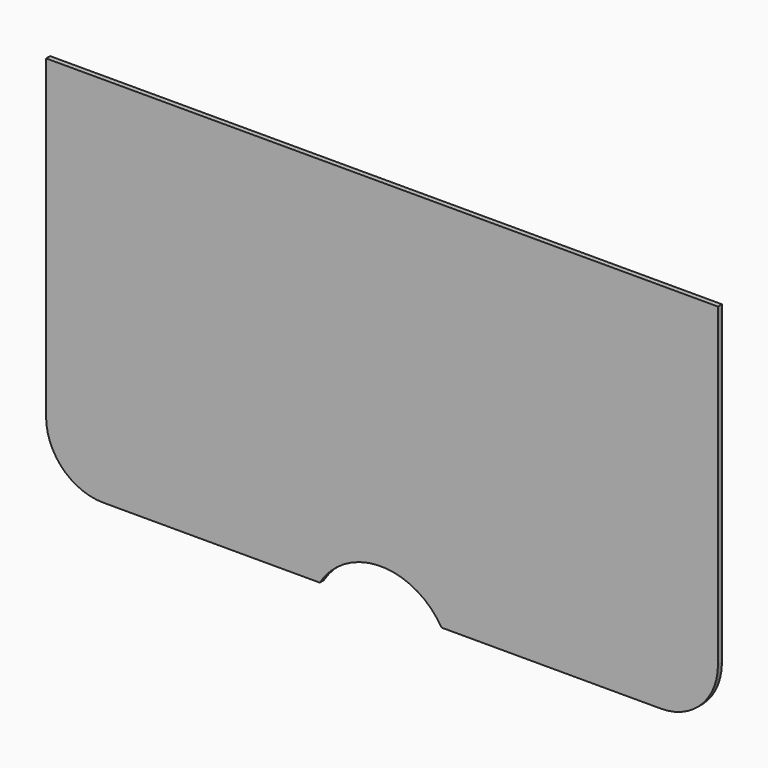
from build123d import *

# Parameters (mm, degrees)
F1_DEPTH = 0.4445


with BuildPart() as f1:
    # F0 (on Front) → F1 (new body)
    with BuildSketch(Plane.XZ):
        with BuildLine():
            Line((29.994239, 30.151092), (-29.88936, 30.151092))
            Line((-29.88936, 30.151092), (-29.88936, 2.026393))
            ThreePointArc((-29.88936, 2.026393), (-28.401463, -1.565709), (-24.80936, -3.053607))
            Line((-24.80936, -3.053607), (-5.494181, -3.053607))
            ThreePointArc((-5.494181, -3.053607), (-0.065119, 0.000334), (5.363943, -3.053607))
            Line((5.363943, -3.053607), (24.914239, -3.053607))
            ThreePointArc((24.914239, -3.053607), (28.506341, -1.565709), (29.994239, 2.026393))
            Line((29.994239, 2.026393), (29.994239, 30.151092))
        make_face()
    extrude(amount=F1_DEPTH)


solid = f1.part
